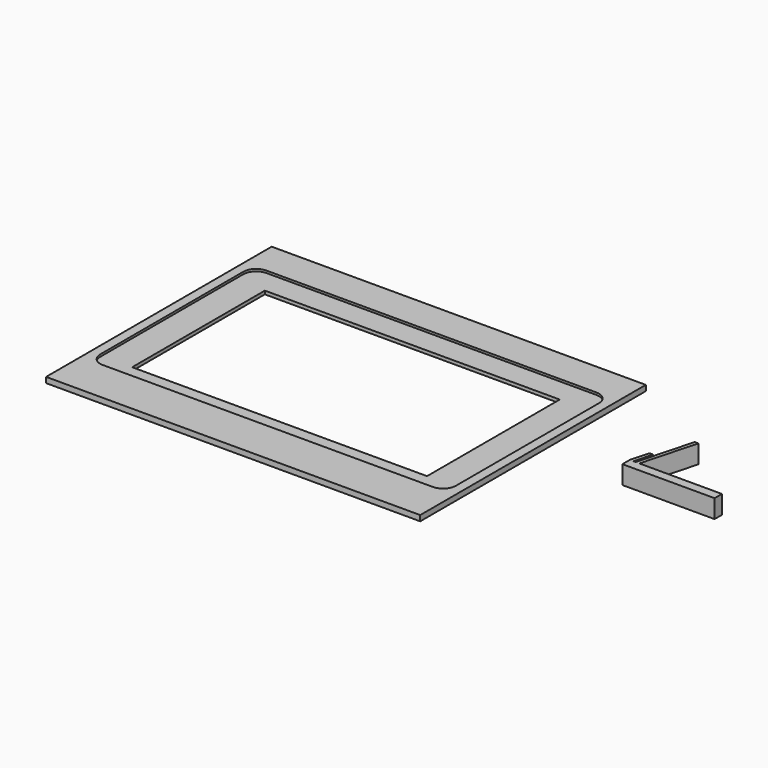
from build123d import *

# Parameters (mm, degrees)
SKETCH_W     = 203
SKETCH_H     = 153
SKETCH_W_2   = 160
SKETCH_H_2   = 90
PAD_DEPTH    = 3
POCKET_DEPTH = 1.2
PAD001_DEPTH = 10


with BuildPart() as framefront:
    # Sketch (on DatumPlane) → Pad (new body)
    with BuildSketch(Plane.XY.offset(-2)):
        Rectangle(SKETCH_W, SKETCH_H)
        Rectangle(SKETCH_W_2, SKETCH_H_2, mode=Mode.SUBTRACT)
    extrude(amount=PAD_DEPTH)

    # Sketch001 (on Face10 of Pad) → Pocket (cut)
    with BuildSketch(Plane.XY.offset(1)):
        with BuildLine():
            Line((-96.5, 51), (-96.5, -46))
            ThreePointArc((-96.5, -46), (-94.449747, -50.949747), (-89.5, -53))
            Line((-89.5, -53), (89.5, -53))
            ThreePointArc((89.5, -53), (94.449747, -50.949747), (96.5, -46))
            Line((96.5, -46), (96.5, 51))
            ThreePointArc((96.5, 51), (94.449747, 55.949747), (89.5, 58))
            Line((89.5, 58), (-89.5, 58))
            ThreePointArc((-89.5, 58), (-94.449747, 55.949747), (-96.5, 51))
        make_face()
    extrude(amount=-POCKET_DEPTH, mode=Mode.SUBTRACT)


with BuildPart() as stand:
    # Sketch002 → Pad001 (new body)
    with BuildSketch(Plane.XY):
        Polygon((150, 0), (200, 0), (200, 5), (155.2, 5), (163.238476, 35), (161.238476, 35), (153.2, 5), (152, 5), (154.679492, 15), (152.679492, 15), (150, 5), align=None)
    extrude(amount=PAD001_DEPTH)


solid = Compound([framefront.part, stand.part])
